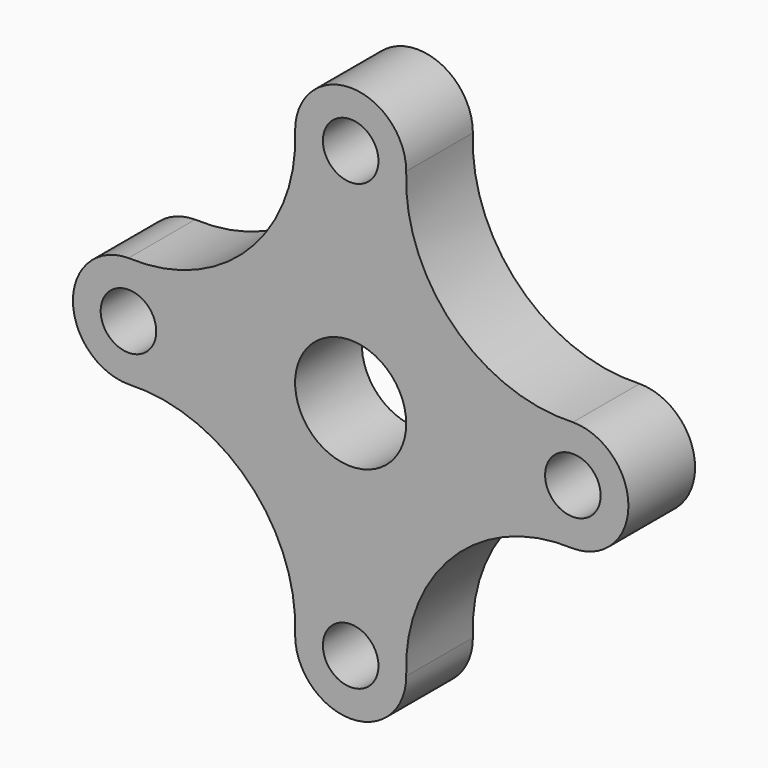
from build123d import *

# Parameters (mm, degrees)
F0_R     = 6.35
F0_R_2   = 12.7
F1_DEPTH = 19.05


with BuildPart() as f1:
    # F0 (on Front) → F1 (new body)
    with BuildSketch(Plane.XZ):
        with BuildLine():
            ThreePointArc((50.8, 12.7), (23.358147, 23.358147), (12.7, 50.8))
            ThreePointArc((12.7, 50.8), (0, 63.5), (-12.7, 50.8))
            ThreePointArc((-12.7, 50.8), (-23.358147, 23.358147), (-50.8, 12.7))
            ThreePointArc((-50.8, 12.7), (-63.5, 0), (-50.8, -12.7))
            ThreePointArc((-50.8, -12.7), (-23.358147, -23.358147), (-12.7, -50.8))
            ThreePointArc((-12.7, -50.8), (0, -63.5), (12.7, -50.8))
            ThreePointArc((12.7, -50.8), (23.358147, -23.358147), (50.8, -12.7))
            ThreePointArc((50.8, -12.7), (63.5, 0), (50.8, 12.7))
        make_face()
        with Locations((0, -50.8)):
            Circle(F0_R, mode=Mode.SUBTRACT)
        with Locations((-50.8, 0)):
            Circle(F0_R, mode=Mode.SUBTRACT)
        Circle(F0_R_2, mode=Mode.SUBTRACT)
        with Locations((50.8, 0)):
            Circle(F0_R, mode=Mode.SUBTRACT)
        with Locations((0, 50.8)):
            Circle(F0_R, mode=Mode.SUBTRACT)
    extrude(amount=F1_DEPTH)


solid = f1.part
